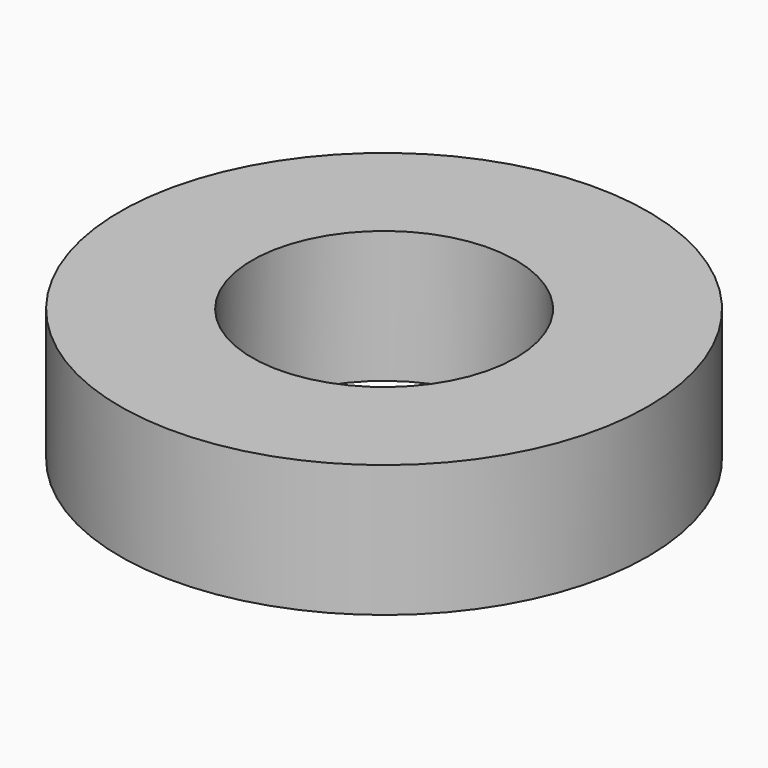
from build123d import *

# Parameters (mm, degrees)
CYLINDER357_R     = 2
CYLINDER357_DEPTH = 2
CYLINDER358_R     = 4
CYLINDER358_DEPTH = 2


with BuildPart() as cylinder357:
    # Cylinder357 → Cylinder357 (new body)
    with BuildSketch(Plane.XY):
        Circle(CYLINDER357_R)
    extrude(amount=CYLINDER357_DEPTH)


with BuildPart() as spacer5:
    # Cylinder358 → Cylinder358 (new body)
    with BuildSketch(Plane.XY):
        Circle(CYLINDER358_R)
    extrude(amount=CYLINDER358_DEPTH)

    # Cut373: cut Cylinder357
    add(cylinder357.part, mode=Mode.SUBTRACT)


with BuildPart() as spacer5_1:
    # Cut373 placement: moved
    add(spacer5.part.moved(Location((33, -19, 57))))


solid = spacer5_1.part
